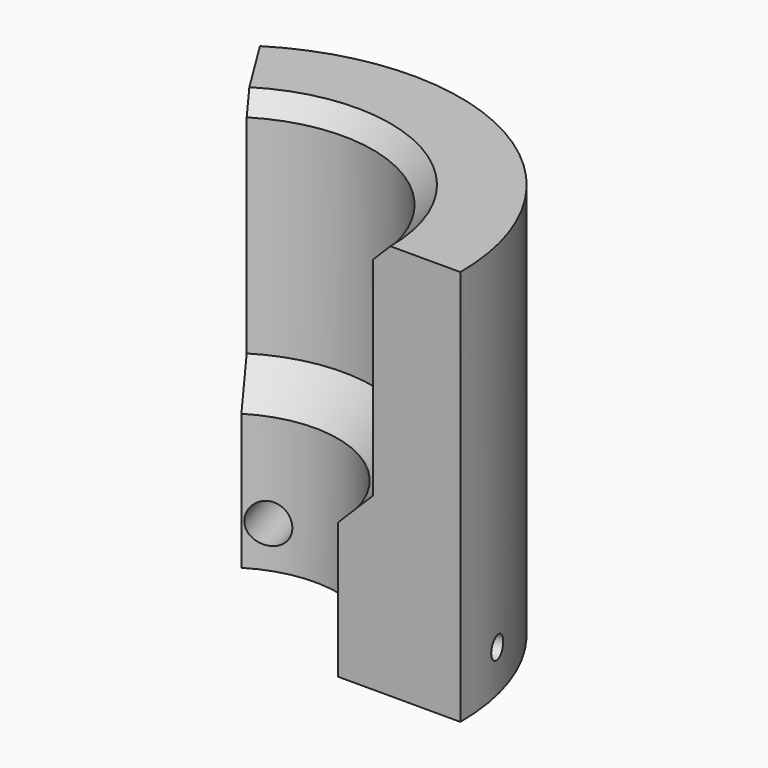
from build123d import *

# Parameters (mm, degrees)
F1_DEPTH  = 143.66875
F7_R      = 3.96875
F8_DEPTH  = 76.2
F6_R      = 7.14375
F9_DEPTH  = 28.575
F11_R     = 7.14375
F13_DEPTH = 28.575
F12_R     = 3.96875
F14_DEPTH = 76.2


with BuildPart() as f1:
    # F0 (on Top) → F1 (new body)
    with BuildSketch(Plane.XY):
        with BuildLine():
            ThreePointArc((-21.784028, 35.058262), (20.056045, 36.074654), (41.275, 0))
            Line((41.275, 0), (85.725, 0))
            ThreePointArc((85.725, 0), (41.654863, 74.924282), (-45.24375, 72.813314))
            Line((-45.24375, 72.813314), (-21.784028, 35.058262))
        make_face()
    extrude(amount=F1_DEPTH)

    # F2 (on face) → F4 (revolve, cut)
    with BuildSketch(Plane(origin=(0, 0, 0), x_dir=(0.527778, -0.849382, 0), z_dir=(-0.849382, -0.527778, 0))):
        Polygon((-53.975, 61.9125), (-41.275, 49.2125), (-41.275, 143.66875), (-60.325, 143.66875), (-53.975, 137.31875), align=None)
    revolve(axis=Axis((0, 0, 45.690566), (0, 0, 1)), mode=Mode.SUBTRACT)

    # F7 (on face) → F8 (cut)
    with BuildSketch(Plane(origin=(-11.304252, 38.162514, 0), x_dir=(-0.95882, -0.284015, 0), z_dir=(-0.284015, 0.95882, 0))):
        with Locations((2.992371, 15.08125)):
            Circle(F7_R)
    extrude(amount=F8_DEPTH, mode=Mode.SUBTRACT)

    # F6 (on face) → F9 (cut)
    with BuildSketch(Plane(origin=(-11.304252, 38.162514, 0), x_dir=(-0.95882, -0.284015, 0), z_dir=(-0.284015, 0.95882, 0))):
        with Locations((2.992371, 15.08125)):
            Circle(F6_R)
    extrude(amount=F9_DEPTH, mode=Mode.SUBTRACT)

    # F11 (on face) → F13 (cut)
    with BuildSketch(Plane(origin=(38.419372, 10.474323, 0), x_dir=(0.263031, -0.964787, 0), z_dir=(-0.964787, -0.263031, 0))):
        with Locations((2.919113, 15.08125)):
            Circle(F11_R)
    extrude(amount=-F13_DEPTH, mode=Mode.SUBTRACT)

    # F12 (on face) → F14 (cut)
    with BuildSketch(Plane(origin=(38.419372, 10.474323, 0), x_dir=(0.263031, -0.964787, 0), z_dir=(-0.964787, -0.263031, 0))):
        with Locations((2.919113, 15.08125)):
            Circle(F12_R)
    extrude(amount=-F14_DEPTH, mode=Mode.SUBTRACT)


solid = f1.part
